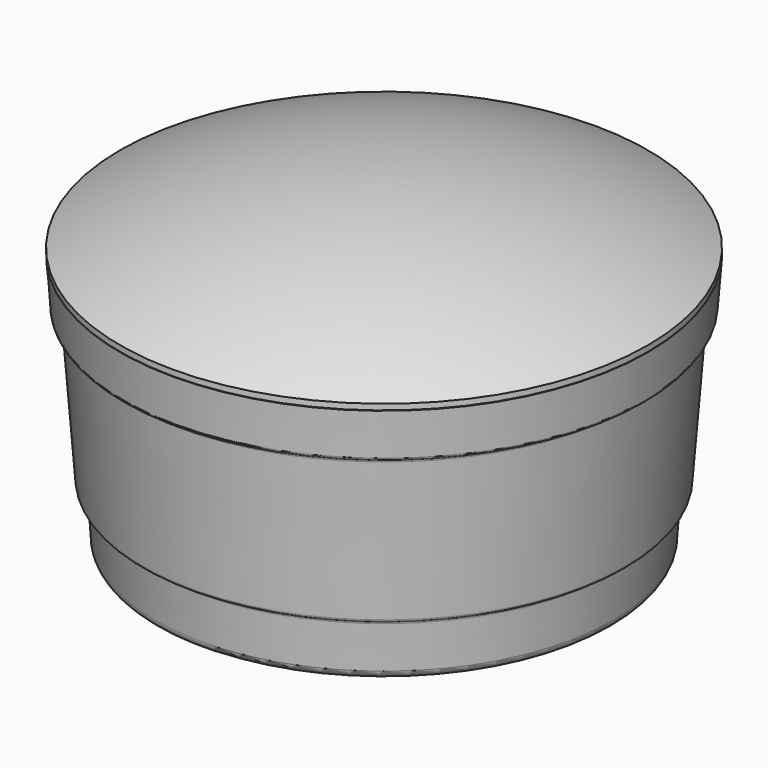
from build123d import *


with BuildPart() as revolve_body:
    # Sketch → Revolve (revolve)
    with BuildSketch(Plane.XZ):
        with BuildLine():
            Line((0, 0), (580, 0))
            ThreePointArc((580, 0), (599.92849, 7.575565), (609.792342, 26.476313))
            Line((609.792342, 26.476313), (627.410776, 175.438022))
            ThreePointArc((632.341557, 182.923714), (628.990452, 179.764283), (627.410776, 175.438022))
            Line((632.341557, 182.923714), (652.341557, 194.470719))
            ThreePointArc((652.341557, 194.470719), (655.692661, 197.63015), (657.272337, 201.956411))
            Line((657.272337, 201.956411), (702.520004, 584.519902))
            ThreePointArc((707.450785, 592.005594), (704.09968, 588.846163), (702.520004, 584.519902))
            Line((707.450785, 592.005594), (727.450785, 603.552599))
            ThreePointArc((727.450785, 603.552599), (730.80189, 606.71203), (732.381566, 611.038291))
            Line((732.381566, 611.038291), (750, 760))
            Line((750, 760), (0, 760))
            Line((0, 760), (0, 0))
        make_face()
    revolve(axis=Axis((0, 0, 0), (0, 0, 1)))


with BuildPart() as revolve001:
    # Sketch001 → Revolve001 (revolve)
    with BuildSketch(Plane.XZ):
        with BuildLine():
            ThreePointArc((760, 2), (393.974618, 157.061106), (0, 210))
            Line((0, 210), (0, 207))
            ThreePointArc((757, 0), (392.395846, 154.317176), (0, 207))
            Line((757, -18), (757, 0))
            Line((760, -18), (757, -18))
            Line((760, 2), (760, -18))
        make_face()
    revolve(axis=Axis((0, 0, 0), (0, 0, 1)))


with BuildPart() as revolve001_1:
    # Revolve001 placement: moved
    add(revolve001.part.moved(Location((0, 0, 768.095947))))


with BuildPart() as revolve002:
    # Sketch002 → Revolve002 (revolve)
    with BuildSketch(Plane.XZ):
        with BuildLine():
            Line((0, 0), (700, 0))
            ThreePointArc((700, 0), (720.252868, 7.868092), (729.882307, 27.345243))
            Line((729.882307, 27.345243), (743.15609, 176.756778))
            ThreePointArc((748.116859, 184.532113), (744.68655, 181.25051), (743.15609, 176.756778))
            Line((748.116859, 184.532113), (768.116859, 196.079119))
            ThreePointArc((768.116859, 196.079119), (771.547168, 199.360721), (773.077628, 203.854454))
            Line((773.077628, 203.854454), (806.804679, 583.49079))
            ThreePointArc((811.765448, 591.266125), (808.335139, 587.984522), (806.804679, 583.49079))
            Line((811.765448, 591.266125), (831.765448, 602.81313))
            ThreePointArc((831.765448, 602.81313), (835.195757, 606.094733), (836.726217, 610.588465))
            Line((836.726217, 610.588465), (850, 760))
            Line((850, 760), (0, 760))
            Line((0, 760), (0, 0))
        make_face()
    revolve(axis=Axis((0, 0, 0), (0, 0, 1)))


with BuildPart() as revolve003:
    # Sketch003 → Revolve003 (revolve)
    with BuildSketch(Plane.XZ):
        with BuildLine():
            ThreePointArc((860, 2), (442.398011, 157.261006), (0, 210))
            Line((0, 210), (0, 207))
            ThreePointArc((857, 0), (440.822527, 154.516451), (0, 207))
            Line((857, -18), (857, 0))
            Line((860, -18), (857, -18))
            Line((860, 2), (860, -18))
        make_face()
    revolve(axis=Axis((0, 0, 0), (0, 0, 1)))


with BuildPart() as revolve003_1:
    # Revolve003 placement: moved
    add(revolve003.part.moved(Location((0, 0, 768.095947))))


with BuildPart() as revolve004:
    # Sketch004 → Revolve004 (revolve)
    with BuildSketch(Plane.XZ):
        with BuildLine():
            Line((0, 0), (760, 0))
            ThreePointArc((760, 0), (780.399263, 8.002953), (789.914903, 27.741996))
            Line((789.914903, 27.741996), (801.204922, 177.316511))
            ThreePointArc((806.176557, 185.224097), (802.710747, 181.886442), (801.204922, 177.316511))
            Line((806.176557, 185.224097), (826.176557, 196.771102))
            ThreePointArc((826.176557, 196.771102), (829.642367, 200.108757), (831.148191, 204.678688))
            Line((831.148191, 204.678688), (868.766712, 703.063308))
            ThreePointArc((873.738346, 710.970894), (870.272536, 707.633239), (868.766712, 703.063308))
            Line((873.738346, 710.970894), (893.738346, 722.517899))
            ThreePointArc((893.738346, 722.517899), (897.204156, 725.855554), (898.709981, 730.425485))
            Line((898.709981, 730.425485), (910, 880))
            Line((910, 880), (0, 880))
            Line((0, 880), (0, 0))
        make_face()
    revolve(axis=Axis((0, 0, 0), (0, 0, 1)))


with BuildPart() as revolve005:
    # Sketch005 → Revolve005 (revolve)
    with BuildSketch(Plane.XZ):
        with BuildLine():
            ThreePointArc((910, 2), (467.873915, 164.739735), (0, 220))
            Line((0, 220), (0, 217))
            ThreePointArc((907, 0), (466.298724, 161.995127), (0, 217))
            Line((907, -18), (907, 0))
            Line((910, -18), (907, -18))
            Line((910, 2), (910, -18))
        make_face()
    revolve(axis=Axis((0, 0, 0), (0, 0, 1)))


with BuildPart() as revolve005_1:
    # Revolve005 placement: moved
    add(revolve005.part.moved(Location((0, 0, 899.520569))))


with BuildPart() as revolve006:
    # Sketch006 → Revolve006 (revolve)
    with BuildSketch(Plane.XZ):
        with BuildLine():
            Line((0, 0), (460, 0))
            ThreePointArc((460, 0), (480.042999, 7.677854), (489.82685, 26.781454))
            Line((489.82685, 26.781454), (505.919582, 175.915702))
            ThreePointArc((510.861865, 183.503107), (507.482716, 180.300862), (505.919582, 175.915702))
            Line((510.861865, 183.503107), (530.861865, 195.050112))
            ThreePointArc((530.861865, 195.050112), (534.241014, 198.252357), (535.804148, 202.637518))
            Line((535.804148, 202.637518), (564.022701, 464.143936))
            ThreePointArc((568.964985, 471.731341), (565.585836, 468.529096), (564.022701, 464.143936))
            Line((568.964985, 471.731341), (588.964985, 483.278347))
            ThreePointArc((588.964985, 483.278347), (592.344134, 486.480592), (593.907268, 490.865752))
            Line((593.907268, 490.865752), (610, 640))
            Line((610, 640), (0, 640))
            Line((0, 640), (0, 0))
        make_face()
    revolve(axis=Axis((0, 0, 0), (0, 0, 1)))


with BuildPart() as revolve007:
    # Sketch007 → Revolve007 (revolve)
    with BuildSketch(Plane.XZ):
        with BuildLine():
            ThreePointArc((610, 2), (310.654149, 90.229073), (0, 120))
            Line((0, 120), (0, 117))
            ThreePointArc((607, 0), (309.086557, 87.483251), (0, 117))
            Line((607, -18), (607, 0))
            Line((610, -18), (607, -18))
            Line((610, 2), (610, -18))
        make_face()
    revolve(axis=Axis((0, 0, 0), (0, 0, 1)))


with BuildPart() as revolve007_1:
    # Revolve007 placement: moved
    add(revolve007.part.moved(Location((0, 0, 657.410583))))


solid = Compound([revolve_body.part, revolve001_1.part, revolve002.part, revolve003_1.part, revolve004.part, revolve005_1.part, revolve006.part, revolve007_1.part])
